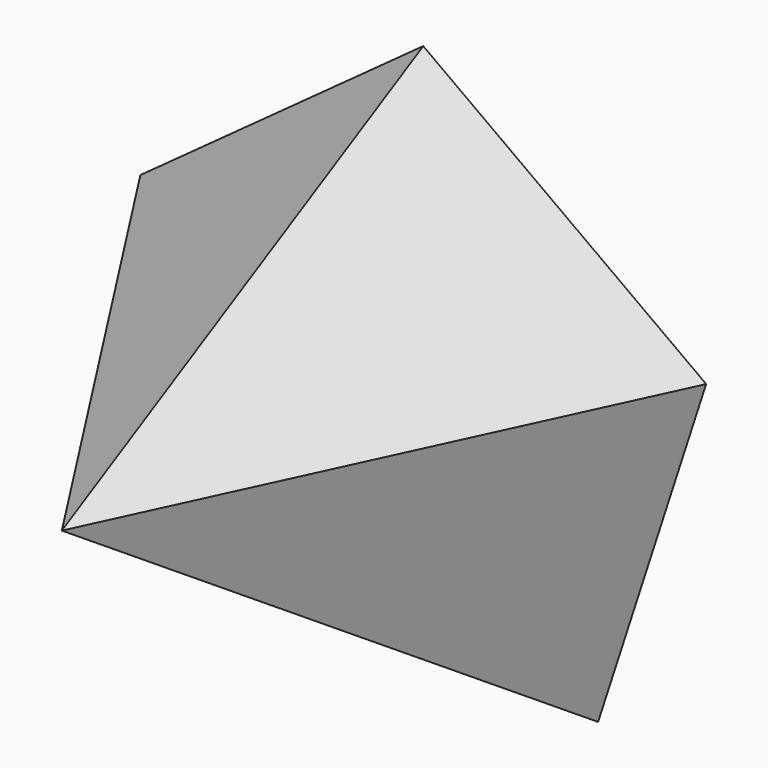
from build123d import *


with BuildPart() as f3:
    # F0 (on Front) → F3 section 0
    with BuildSketch(Plane.XZ, mode=Mode.PRIVATE) as f3_s0:
        Polygon((0, 65.84017), (-62.617723, 20.345731), (-38.699881, -53.265816), (38.699881, -53.265816), (62.617723, 20.345731), align=None)
    loft([f3_s0.sketch, Vertex(0, -100, 12.07493)])


solid = f3.part
